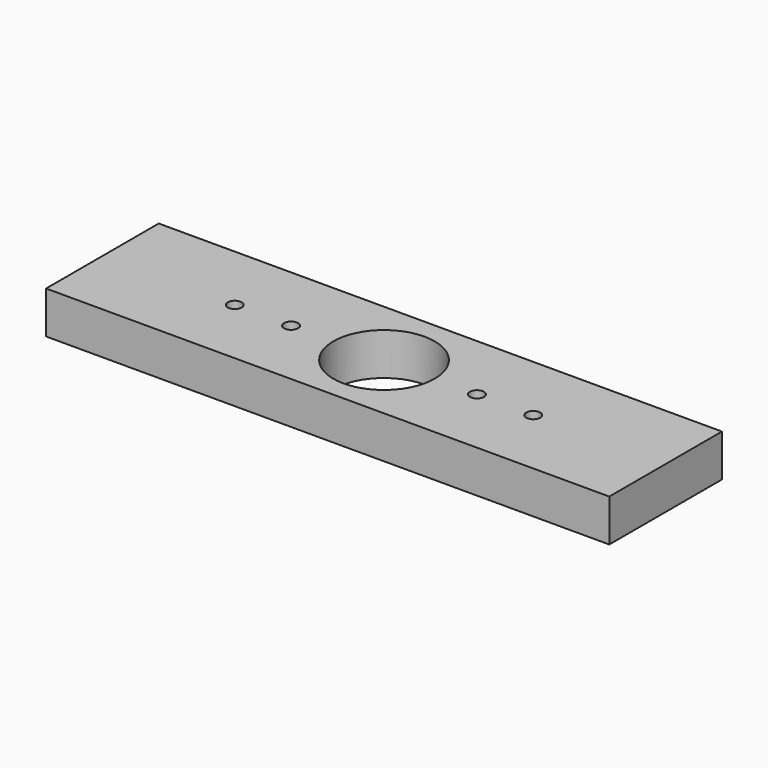
from build123d import *

# Parameters (mm, degrees)
F0_W     = 40
F0_H     = 10
F0_R     = 0.5
F0_R_2   = 3.6
F1_DEPTH = 1.5


with BuildPart() as f1:
    # F0 (on Top) → F1 (new body, symmetric)
    with BuildSketch(Plane.XY):
        Rectangle(F0_W, F0_H)
        with Locations((-10.6, 0)):
            Circle(F0_R, mode=Mode.SUBTRACT)
        with Locations((-6.6, 0)):
            Circle(F0_R, mode=Mode.SUBTRACT)
        Circle(F0_R_2, mode=Mode.SUBTRACT)
        with Locations((6.6, 0)):
            Circle(F0_R, mode=Mode.SUBTRACT)
        with Locations((10.6, 0)):
            Circle(F0_R, mode=Mode.SUBTRACT)
    extrude(amount=F1_DEPTH, both=True)


solid = f1.part
